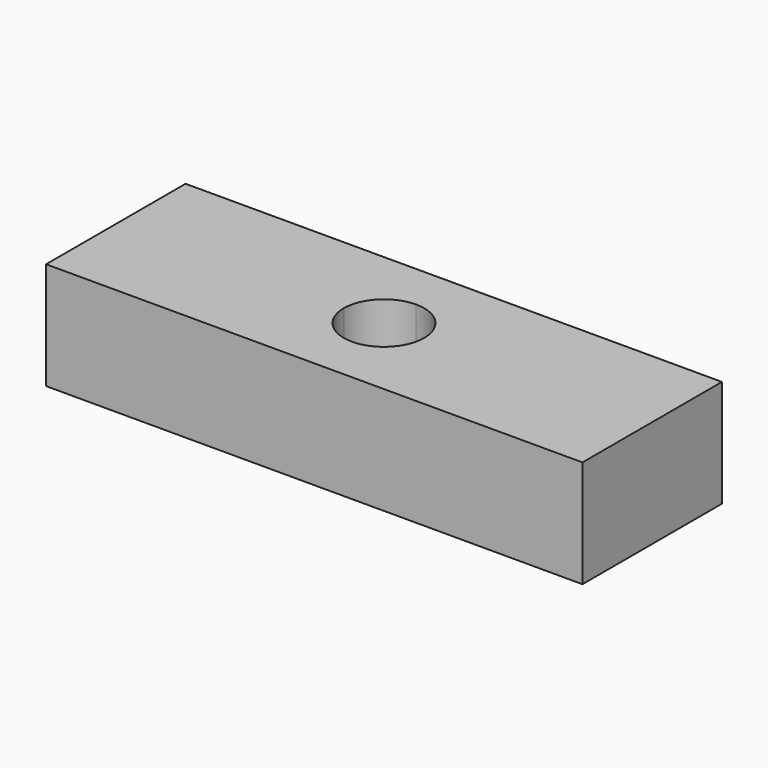
from build123d import *

# Parameters (mm, degrees)
F0_W     = 50.8
F0_H     = 16.51
F1_DEPTH = 10.16
F3_DEPTH = 25.4


with BuildPart() as f1:
    # F0 (on Top) → F1 (new body)
    with BuildSketch(Plane.XY):
        with Locations((20.9368563824, 6.4443439901)):
            Rectangle(F0_W, F0_H)
    extrude(amount=F1_DEPTH)

    # F2 (on face) → F3 (cut)
    with BuildSketch(Plane(origin=(0, 0, 0), x_dir=(1, 0, 0), z_dir=(0, 0, -1))):
        with BuildLine():
            Line((17.1268563824, -6.4443439901), (20.9368563824, -6.4443439901))
            Line((20.9368563824, -6.4443439901), (20.9368563824, -2.6343439901))
            ThreePointArc((20.9368563824, -2.6343439901), (18.242779546, -3.7502671537), (17.1268563824, -6.4443439901))
        make_face()
        with BuildLine():
            Line((20.9368563824, -6.4443439901), (24.7468563824, -6.4443439901))
            ThreePointArc((24.7468563824, -6.4443439901), (23.6309332187, -3.7502671537), (20.9368563824, -2.6343439901))
            Line((20.9368563824, -2.6343439901), (20.9368563824, -6.4443439901))
        make_face()
        with BuildLine():
            Line((20.9368563824, -10.2543439901), (20.9368563824, -6.4443439901))
            Line((20.9368563824, -6.4443439901), (17.1268563824, -6.4443439901))
            ThreePointArc((17.1268563824, -6.4443439901), (18.242779546, -9.1384208264), (20.9368563824, -10.2543439901))
        make_face()
        with BuildLine():
            ThreePointArc((20.9368563824, -10.2543439901), (23.6309332187, -9.1384208264), (24.7468563824, -6.4443439901))
            Line((24.7468563824, -6.4443439901), (20.9368563824, -6.4443439901))
            Line((20.9368563824, -6.4443439901), (20.9368563824, -10.2543439901))
        make_face()
    extrude(amount=-F3_DEPTH, mode=Mode.SUBTRACT)


solid = f1.part
